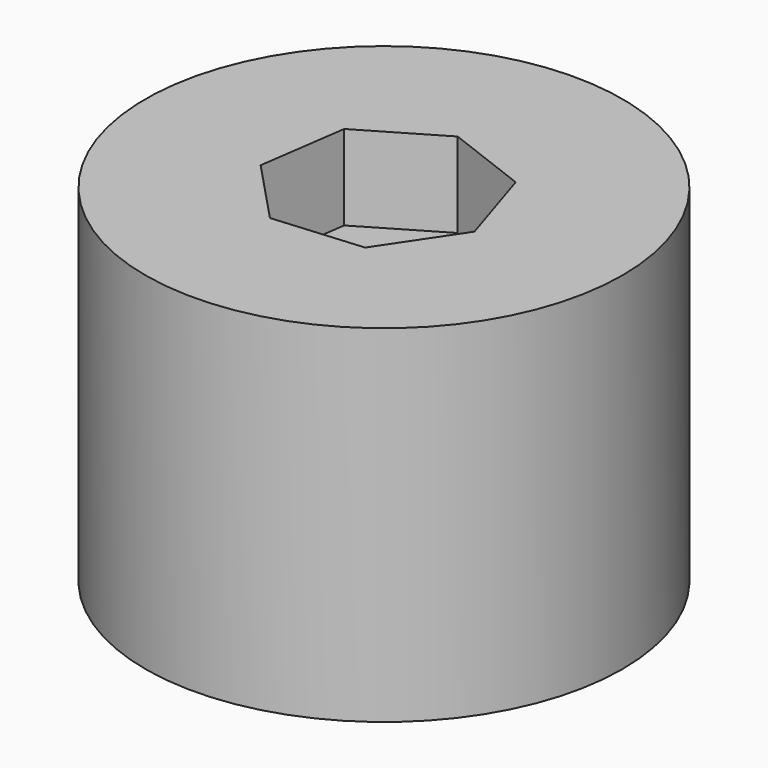
from build123d import *

# Parameters (mm, degrees)
F0_R     = 34.961958
F1_DEPTH = 50.8
F3_DEPTH = 12.446


with BuildPart() as f1:
    # F0 (on Top) → F1 (new body)
    with BuildSketch(Plane.XY):
        Circle(F0_R)
    extrude(amount=F1_DEPTH)

    # F2 (on face) → F3 (cut)
    with BuildSketch(Plane.XY.offset(50.8)):
        Polygon((11.001056, 10.377382), (-1.254318, 15.071164), (-12.565165, 8.416052), (-14.414186, -4.576519), (-5.409031, -14.122877), (7.669234, -13.034421), (14.97241, -2.13078), align=None)
    extrude(amount=-F3_DEPTH, mode=Mode.SUBTRACT)


solid = f1.part
